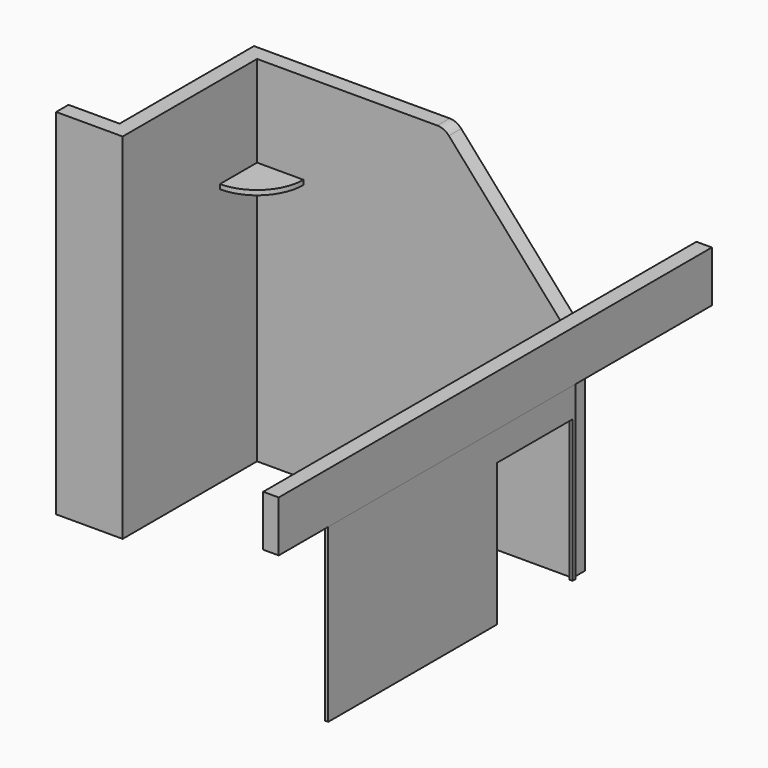
from build123d import *

# Parameters (mm, degrees)
F1_DEPTH      = 100
F2_W          = 1186
F2_H          = 2290
F3_DEPTH      = 100
F4_W          = 100
F4_H          = 330
F5_DEPTH      = 2500
F5_DEPTH_BACK = 1000
F6_W          = 100
F6_H          = 2290
F7_DEPTH      = 330
F8_W          = 20
F8_H          = 1110
F9_DEPTH      = 2000
F10_W         = 610
F10_H         = 920
F11_DEPTH     = 20
F13_START     = 1670
F13_DEPTH     = 30


with BuildPart() as f1:
    # F0 (on Front) → F1 (new body)
    with BuildSketch(Plane.XZ):
        with BuildLine():
            Line((1164.8731288382, 2290), (0, 2290))
            Line((0, 2290), (0, 0))
            Line((0, 0), (2040, 0))
            Line((2040, 0), (2040, 1110))
            Line((2040, 1110), (1960, 1110))
            Line((1960, 1110), (1960, 1440))
            Line((1960, 1440), (1239.8569143747, 2256.1621637087))
            ThreePointArc((1239.8569143747, 2256.1621637087), (1206.0057413806, 2281.1488243777), (1164.8731288382, 2290))
        make_face()
    extrude(amount=F1_DEPTH)

    # F2 (on Right) → F3 (join)
    with BuildSketch(Plane.YZ):
        with Locations((-593, 1145)):
            Rectangle(F2_W, F2_H)
    extrude(amount=-F3_DEPTH)

    # F6 (on face) → F7 (join)
    with BuildSketch(Plane(origin=(-100, 0, 0), x_dir=(0, -1, 0), z_dir=(-1, 0, 0))):
        with Locations((1136, 1145)):
            Rectangle(F6_W, F6_H)
    extrude(amount=F7_DEPTH)

    # F12 (on Top) → F13 (join)
    with BuildSketch(Plane.XY.offset(F13_START)):
        with BuildLine():
            Line((300, -100), (0, -100))
            Line((0, -100), (0, -400))
            ThreePointArc((0, -400), (212.132034356, -312.132034356), (300, -100))
        make_face()
    extrude(amount=F13_DEPTH)


with BuildPart() as f5:
    # F4 (on Front) → F5 (new body, two sides)
    with BuildSketch(Plane.XZ) as f5_sk:
        with Locations((2010, 1275)):
            Rectangle(F4_W, F4_H)
    extrude(amount=F5_DEPTH)
    extrude(f5_sk.sketch, amount=-F5_DEPTH_BACK)


with BuildPart() as f9:
    # F8 (on face) → F9 (new body)
    with BuildSketch(Plane.XZ.offset(100)):
        with Locations((2050, 555)):
            Rectangle(F8_W, F8_H)
    extrude(amount=F9_DEPTH)

    # F10 (on face) → F11 (cut)
    with BuildSketch(Plane.YZ.offset(2060)):
        with Locations((-430, 460)):
            Rectangle(F10_W, F10_H)
    extrude(amount=-F11_DEPTH, mode=Mode.SUBTRACT)


solid = Compound([f1.part, f5.part, f9.part])
